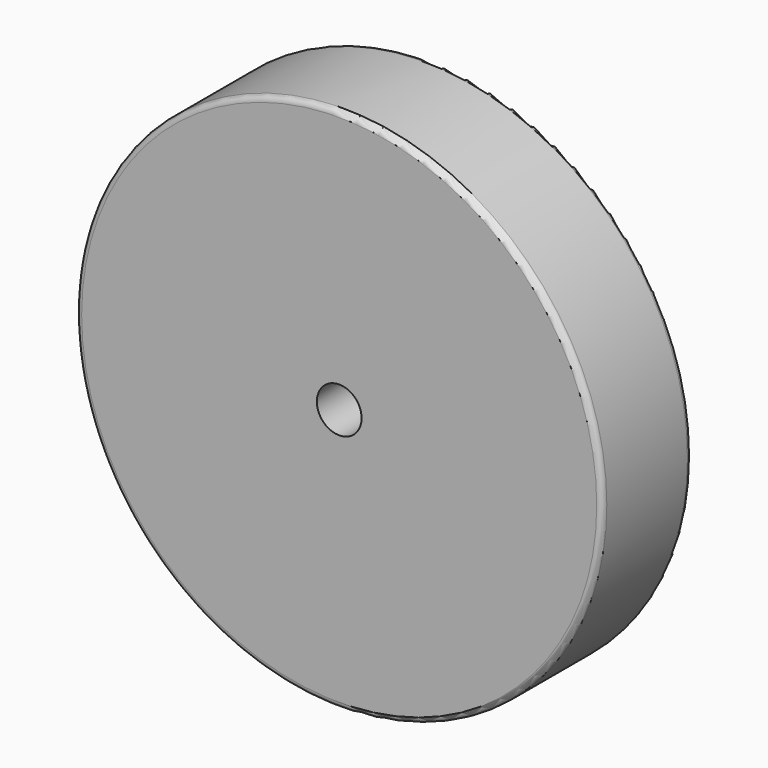
from build123d import *

# Parameters (mm, degrees)
F0_R     = 23.5
F1_DEPTH = 10
F2_R     = 2
F3_DEPTH = 25.4
F4_R     = 0.5


with BuildPart() as f1:
    # F0 (on Front) → F1 (new body)
    with BuildSketch(Plane.XZ):
        Circle(F0_R)
    extrude(amount=F1_DEPTH)

    # F2 (on face) → F3 (cut)
    with BuildSketch(Plane.XZ.offset(10)):
        Circle(F2_R)
    extrude(amount=-F3_DEPTH, mode=Mode.SUBTRACT)

    # F4
    f4_edges = [f1.edges().sort_by_distance(p)[0] for p in [
        (-23.5, -10, 0),
        (-23.5, 0, 0),
    ]]
    fillet(f4_edges, radius=F4_R)


solid = f1.part
